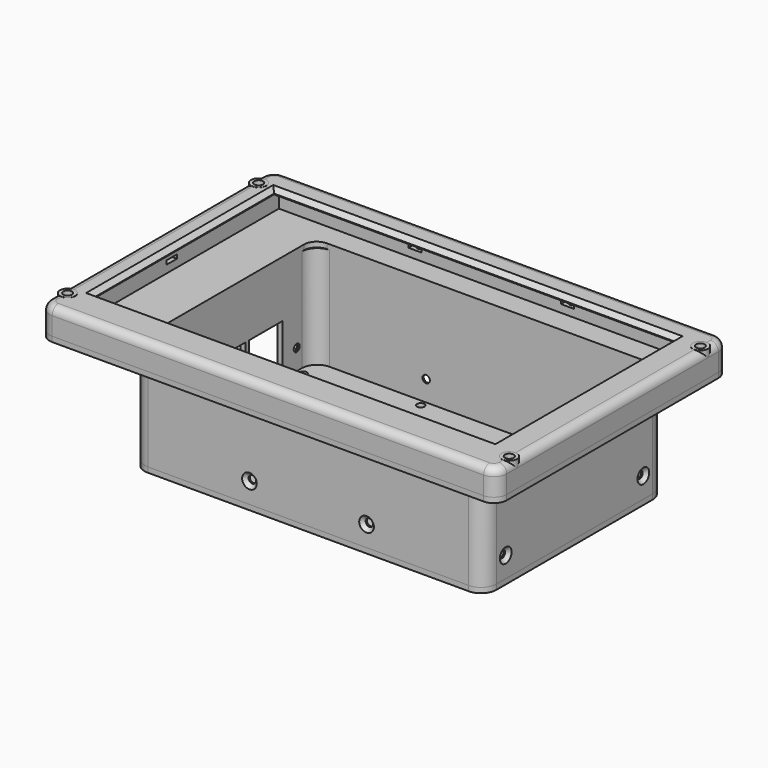
from build123d import *

# Parameters (mm, degrees)
BOX023_W          = 5
BOX023_H          = 4
BOX023_DEPTH      = 1.5
BOX022_W          = 6
BOX022_H          = 5
BOX022_DEPTH      = 1.5
BOX021_W          = 6
BOX021_H          = 5
BOX021_DEPTH      = 1.5
BOX020_W          = 5
BOX020_H          = 4
BOX020_DEPTH      = 1.5
BOX019_W          = 5
BOX019_H          = 4
BOX019_DEPTH      = 1.5
BOX018_W          = 5
BOX018_H          = 4
BOX018_DEPTH      = 1.5
CYLINDER027_R     = 0.9
CYLINDER027_DEPTH = 10
CYLINDER026_R     = 0.9
CYLINDER026_DEPTH = 10
CYLINDER025_R     = 0.9
CYLINDER025_DEPTH = 10
CYLINDER024_R     = 0.9
CYLINDER024_DEPTH = 10
CYLINDER023_R     = 0.9
CYLINDER023_DEPTH = 10
CYLINDER022_R     = 0.9
CYLINDER022_DEPTH = 10
CYLINDER003_R     = 1.7
CYLINDER003_DEPTH = 17
CYLINDER002_R     = 1.7
CYLINDER002_DEPTH = 17
CYLINDER001_R     = 1.7
CYLINDER001_DEPTH = 17
CYLINDER_R        = 1.7
CYLINDER_DEPTH    = 17
CYLINDER007_R     = 2.99
CYLINDER007_DEPTH = 7.1
CYLINDER006_R     = 2.99
CYLINDER006_DEPTH = 7.1
CYLINDER005_R     = 2.99
CYLINDER005_DEPTH = 7.1
CYLINDER004_R     = 2.99
CYLINDER004_DEPTH = 7.1
BOX006_W          = 156
BOX006_H          = 87.7
BOX006_DEPTH      = 7.05
BOX001_W          = 165.4
BOX001_H          = 104.4
BOX001_DEPTH      = 8.05
BOX_W             = 178
BOX_H             = 113
BOX_DEPTH         = 10.05
FILLET_R          = 5
FILLET012_R       = 3
CHAMFER_SIZE      = 1.7
CHAMFER004_SIZE   = 1.7
TUBE_R            = 3
TUBE_R_2          = 1.45
TUBE_DEPTH        = 2
BOX036_W          = 2
BOX036_H          = 16.3
BOX036_DEPTH      = 16
BOX035_W          = 2
BOX035_H          = 16.3
BOX035_DEPTH      = 16
BOX034_W          = 2
BOX034_H          = 17.3
BOX034_DEPTH      = 14.5
BOX005_W          = 133
BOX005_H          = 84
BOX005_DEPTH      = 15
FILLET003_R       = 5
BOX004_W          = 178
BOX004_H          = 113
BOX004_DEPTH      = 2
FILLET004_R       = 5
CYLINDER032_R     = 1.45
CYLINDER032_DEPTH = 108
CYLINDER011_R     = 1.45
CYLINDER011_DEPTH = 157
CYLINDER010_R     = 1.45
CYLINDER010_DEPTH = 155
CYLINDER008_R     = 1.45
CYLINDER008_DEPTH = 108
BOX007_W          = 133
BOX007_H          = 84
BOX007_DEPTH      = 40
BOX008_W          = 137
BOX008_H          = 88
BOX008_DEPTH      = 40
FILLET013_R       = 6
CHAMFER005_SIZE   = 1.4
CHAMFER006_SIZE   = 0.8
CYLINDER021_R     = 1.45
CYLINDER021_DEPTH = 10
CYLINDER020_R     = 1.45
CYLINDER020_DEPTH = 10
BOX017_W          = 10
BOX017_H          = 19
BOX017_DEPTH      = 10
FILLET015_R       = 2
CYLINDER015_R     = 1.45
CYLINDER015_DEPTH = 10
CYLINDER014_R     = 1.45
CYLINDER014_DEPTH = 10
CYLINDER013_R     = 1.45
CYLINDER013_DEPTH = 10
CYLINDER012_R     = 1.45
CYLINDER012_DEPTH = 10
CYLINDER040_R     = 1.45
CYLINDER040_DEPTH = 10
CYLINDER039_R     = 1.45
CYLINDER039_DEPTH = 10
CYLINDER038_R     = 1.45
CYLINDER038_DEPTH = 10
CYLINDER037_R     = 1.45
CYLINDER037_DEPTH = 10
CYLINDER036_R     = 1.45
CYLINDER036_DEPTH = 10
CYLINDER035_R     = 1.45
CYLINDER035_DEPTH = 10
CYLINDER034_R     = 1.45
CYLINDER034_DEPTH = 10
CYLINDER033_R     = 1.45
CYLINDER033_DEPTH = 10
BOX010_W          = 137
BOX010_H          = 88
BOX010_DEPTH      = 2
FILLET014_R       = 6
TUBE001_R         = 3
TUBE001_R_2       = 1.45
TUBE001_DEPTH     = 2
TUBE002_R         = 3
TUBE002_R_2       = 1.45
TUBE002_DEPTH     = 2
TUBE003_R         = 3
TUBE003_R_2       = 1.45
TUBE003_DEPTH     = 2


with BuildPart() as obj1:
    # Box023 → Box023 (new body)
    with BuildSketch(Plane(origin=(116.167, 108.5, 3), x_dir=(1, 0, 0), z_dir=(0, 0, 1))):
        with Locations((2.5, 2)):
            Rectangle(BOX023_W, BOX023_H)
    extrude(amount=BOX023_DEPTH)


with BuildPart() as obj2:
    # Box022 → Box022 (new body)
    with BuildSketch(Plane(origin=(170.7, 54, 3), x_dir=(1, 0, 0), z_dir=(0, 0, 1))):
        with Locations((3, 2.5)):
            Rectangle(BOX022_W, BOX022_H)
    extrude(amount=BOX022_DEPTH)


with BuildPart() as obj3:
    # Box021 → Box021 (new body)
    with BuildSketch(Plane(origin=(1.3, 54, 3), x_dir=(1, 0, 0), z_dir=(0, 0, 1))):
        with Locations((3, 2.5)):
            Rectangle(BOX021_W, BOX021_H)
    extrude(amount=BOX021_DEPTH)


with BuildPart() as obj4:
    # Box020 → Box020 (new body)
    with BuildSketch(Plane(origin=(56.8333, 108.5, 3), x_dir=(1, 0, 0), z_dir=(0, 0, 1))):
        with Locations((2.5, 2)):
            Rectangle(BOX020_W, BOX020_H)
    extrude(amount=BOX020_DEPTH)


with BuildPart() as obj5:
    # Box019 → Box019 (new body)
    with BuildSketch(Plane(origin=(116.167, 0.5, 3), x_dir=(1, 0, 0), z_dir=(0, 0, 1))):
        with Locations((2.5, 2)):
            Rectangle(BOX019_W, BOX019_H)
    extrude(amount=BOX019_DEPTH)


with BuildPart() as obj6:
    # Box018 → Box018 (new body)
    with BuildSketch(Plane(origin=(56.8333, 0.5, 3), x_dir=(1, 0, 0), z_dir=(0, 0, 1))):
        with Locations((2.5, 2)):
            Rectangle(BOX018_W, BOX018_H)
    extrude(amount=BOX018_DEPTH)


with BuildPart() as zylinder027:
    # Cylinder027 → Cylinder027 (new body)
    with BuildSketch(Plane(origin=(174.85, 56.5, -4), x_dir=(1, 0, 0), z_dir=(0, 0, 1))):
        Circle(CYLINDER027_R)
    extrude(amount=CYLINDER027_DEPTH)


with BuildPart() as zylinder026:
    # Cylinder026 → Cylinder026 (new body)
    with BuildSketch(Plane(origin=(3.15, 56.5, -4), x_dir=(1, 0, 0), z_dir=(0, 0, 1))):
        Circle(CYLINDER026_R)
    extrude(amount=CYLINDER026_DEPTH)


with BuildPart() as zylinder025:
    # Cylinder025 → Cylinder025 (new body)
    with BuildSketch(Plane(origin=(118.666667, 110.85, -4), x_dir=(1, 0, 0), z_dir=(0, 0, 1))):
        Circle(CYLINDER025_R)
    extrude(amount=CYLINDER025_DEPTH)


with BuildPart() as zylinder024:
    # Cylinder024 → Cylinder024 (new body)
    with BuildSketch(Plane(origin=(59.333333, 110.85, -4), x_dir=(1, 0, 0), z_dir=(0, 0, 1))):
        Circle(CYLINDER024_R)
    extrude(amount=CYLINDER024_DEPTH)


with BuildPart() as zylinder023:
    # Cylinder023 → Cylinder023 (new body)
    with BuildSketch(Plane(origin=(118.666667, 2.15, -4), x_dir=(1, 0, 0), z_dir=(0, 0, 1))):
        Circle(CYLINDER023_R)
    extrude(amount=CYLINDER023_DEPTH)


with BuildPart() as zylinder022:
    # Cylinder022 → Cylinder022 (new body)
    with BuildSketch(Plane(origin=(59.333333, 2.15, -4), x_dir=(1, 0, 0), z_dir=(0, 0, 1))):
        Circle(CYLINDER022_R)
    extrude(amount=CYLINDER022_DEPTH)


with BuildPart() as zylinder003:
    # Cylinder003 → Cylinder003 (new body)
    with BuildSketch(Plane(origin=(175, 103, -5), x_dir=(1, 0, 0), z_dir=(0, 0, 1))):
        Circle(CYLINDER003_R)
    extrude(amount=CYLINDER003_DEPTH)


with BuildPart() as zylinder002:
    # Cylinder002 → Cylinder002 (new body)
    with BuildSketch(Plane(origin=(175, 10, -5), x_dir=(1, 0, 0), z_dir=(0, 0, 1))):
        Circle(CYLINDER002_R)
    extrude(amount=CYLINDER002_DEPTH)


with BuildPart() as zylinder001:
    # Cylinder001 → Cylinder001 (new body)
    with BuildSketch(Plane(origin=(3, 103, -5), x_dir=(1, 0, 0), z_dir=(0, 0, 1))):
        Circle(CYLINDER001_R)
    extrude(amount=CYLINDER001_DEPTH)


with BuildPart() as zylinder:
    # Cylinder → Cylinder (new body)
    with BuildSketch(Plane(origin=(3, 10, -5), x_dir=(1, 0, 0), z_dir=(0, 0, 1))):
        Circle(CYLINDER_R)
    extrude(amount=CYLINDER_DEPTH)


with BuildPart() as zylinder007:
    # Cylinder007 → Cylinder007 (new body)
    with BuildSketch(Plane(origin=(175, 103, 3), x_dir=(1, 0, 0), z_dir=(0, 0, 1))):
        Circle(CYLINDER007_R)
    extrude(amount=CYLINDER007_DEPTH)


with BuildPart() as zylinder006:
    # Cylinder006 → Cylinder006 (new body)
    with BuildSketch(Plane(origin=(175, 10, 3), x_dir=(1, 0, 0), z_dir=(0, 0, 1))):
        Circle(CYLINDER006_R)
    extrude(amount=CYLINDER006_DEPTH)


with BuildPart() as zylinder005:
    # Cylinder005 → Cylinder005 (new body)
    with BuildSketch(Plane(origin=(3, 103, 3), x_dir=(1, 0, 0), z_dir=(0, 0, 1))):
        Circle(CYLINDER005_R)
    extrude(amount=CYLINDER005_DEPTH)


with BuildPart() as zylinder004:
    # Cylinder004 → Cylinder004 (new body)
    with BuildSketch(Plane(origin=(3, 10, 3), x_dir=(1, 0, 0), z_dir=(0, 0, 1))):
        Circle(CYLINDER004_R)
    extrude(amount=CYLINDER004_DEPTH)


with BuildPart() as obj7:
    # Box006 → Box006 (new body)
    with BuildSketch(Plane(origin=(9, 15.3, 3), x_dir=(1, 0, 0), z_dir=(0, 0, 1))):
        with Locations((78, 43.85)):
            Rectangle(BOX006_W, BOX006_H)
    extrude(amount=BOX006_DEPTH)


with BuildPart() as obj8:
    # Box001 → Box001 (new body)
    with BuildSketch(Plane(origin=(6.3, 4.3, 0), x_dir=(1, 0, 0), z_dir=(0, 0, 1))):
        with Locations((82.7, 52.2)):
            Rectangle(BOX001_W, BOX001_H)
    extrude(amount=BOX001_DEPTH)


with BuildPart() as frame:
    # Box → Box (new body)
    with BuildSketch(Plane.XY):
        with Locations((89, 56.5)):
            Rectangle(BOX_W, BOX_H)
    extrude(amount=BOX_DEPTH)

    # Cut: cut obj8
    add(obj8.part, mode=Mode.SUBTRACT)

    # Cut038: cut obj7
    add(obj7.part, mode=Mode.SUBTRACT)

    # Fillet
    fillet_edges = [frame.edges().sort_by_distance(p)[0] for p in [
        (0, 0, 5.025),
        (0, 113, 5.025),
        (178, 0, 5.025),
        (178, 113, 5.025),
    ]]
    fillet(fillet_edges, radius=FILLET_R)

    # Fillet012
    fillet012_edges = [frame.edges().sort_by_distance(p)[0] for p in [
        (178, 56.5, 10.05),
    ]]
    fillet(fillet012_edges, radius=FILLET012_R)

    # Fusion: union Zylinder004
    add(zylinder004.part)

    # Fusion018: union Zylinder005
    add(zylinder005.part)

    # Fusion019: union Zylinder006
    add(zylinder006.part)

    # Fusion020: union Zylinder007
    add(zylinder007.part)

    # Cut039: cut Zylinder
    add(zylinder.part, mode=Mode.SUBTRACT)

    # Cut040: cut Zylinder001
    add(zylinder001.part, mode=Mode.SUBTRACT)

    # Cut041: cut Zylinder002
    add(zylinder002.part, mode=Mode.SUBTRACT)

    # Cut042: cut Zylinder003
    add(zylinder003.part, mode=Mode.SUBTRACT)

    # Chamfer
    chamfer_edges = [frame.edges().sort_by_distance(p)[0] for p in [
        (9, 59.15, 10.05),
        (165, 59.15, 10.05),
    ]]
    chamfer(chamfer_edges, length=CHAMFER_SIZE)

    # Chamfer004
    chamfer004_edges = [frame.edges().sort_by_distance(p)[0] for p in [
        (8.15, 15.3, 10.05),
        (87, 15.3, 10.05),
        (165.85, 15.3, 10.05),
        (8.15, 103, 10.05),
        (87, 103, 10.05),
        (165.85, 103, 10.05),
    ]]
    chamfer(chamfer004_edges, length=CHAMFER004_SIZE)

    # Cut043: cut Zylinder022
    add(zylinder022.part, mode=Mode.SUBTRACT)

    # Cut044: cut Zylinder023
    add(zylinder023.part, mode=Mode.SUBTRACT)

    # Cut045: cut Zylinder024
    add(zylinder024.part, mode=Mode.SUBTRACT)

    # Cut046: cut Zylinder025
    add(zylinder025.part, mode=Mode.SUBTRACT)

    # Cut047: cut Zylinder026
    add(zylinder026.part, mode=Mode.SUBTRACT)

    # Cut048: cut Zylinder027
    add(zylinder027.part, mode=Mode.SUBTRACT)

    # Cut049: cut obj6
    add(obj6.part, mode=Mode.SUBTRACT)

    # Cut050: cut obj5
    add(obj5.part, mode=Mode.SUBTRACT)

    # Cut051: cut obj4
    add(obj4.part, mode=Mode.SUBTRACT)

    # Cut052: cut obj3
    add(obj3.part, mode=Mode.SUBTRACT)

    # Cut053: cut obj2
    add(obj2.part, mode=Mode.SUBTRACT)

    # Cut083: cut obj1
    add(obj1.part, mode=Mode.SUBTRACT)


with BuildPart() as spacer:
    # Tube → Tube (new body)
    with BuildSketch(Plane(origin=(109.5, 33.5, -42), x_dir=(1, 0, 0), z_dir=(0, 0, 1))):
        Circle(TUBE_R)
        Circle(TUBE_R_2, mode=Mode.SUBTRACT)
    extrude(amount=TUBE_DEPTH)


with BuildPart() as obj9:
    # Box036 → Box036 (new body)
    with BuildSketch(Plane(origin=(25, 68.4, -38), x_dir=(1, 0, 0), z_dir=(0, 0, 1))):
        with Locations((1, 8.15)):
            Rectangle(BOX036_W, BOX036_H)
    extrude(amount=BOX036_DEPTH)


with BuildPart() as obj10:
    # Box035 → Box035 (new body)
    with BuildSketch(Plane(origin=(25, 50.4, -38), x_dir=(1, 0, 0), z_dir=(0, 0, 1))):
        with Locations((1, 8.15)):
            Rectangle(BOX035_W, BOX035_H)
    extrude(amount=BOX035_DEPTH)


with BuildPart() as obj11:
    # Box034 → Box034 (new body)
    with BuildSketch(Plane(origin=(25, 31.5, -38), x_dir=(1, 0, 0), z_dir=(0, 0, 1))):
        with Locations((1, 8.65)):
            Rectangle(BOX034_W, BOX034_H)
    extrude(amount=BOX034_DEPTH)


with BuildPart() as fillet003:
    # Box005 → Box005 (new body)
    with BuildSketch(Plane(origin=(27, 16, -14), x_dir=(1, 0, 0), z_dir=(0, 0, 1))):
        with Locations((66.5, 42)):
            Rectangle(BOX005_W, BOX005_H)
    extrude(amount=BOX005_DEPTH)

    # Fillet003
    fillet003_edges = [fillet003.edges().sort_by_distance(p)[0] for p in [
        (27, 16, -6.5),
        (27, 100, -6.5),
        (160, 16, -6.5),
        (160, 100, -6.5),
    ]]
    fillet(fillet003_edges, radius=FILLET003_R)


with BuildPart() as cut066:
    # Box004 → Box004 (new body)
    with BuildSketch(Plane.XY.offset(-2)):
        with Locations((89, 56.5)):
            Rectangle(BOX004_W, BOX004_H)
    extrude(amount=BOX004_DEPTH)

    # Cut011: cut Fillet003
    add(fillet003.part, mode=Mode.SUBTRACT)

    # Cut012: cut Zylinder001
    add(zylinder001.part, mode=Mode.SUBTRACT)

    # Cut013: cut Zylinder002
    add(zylinder002.part, mode=Mode.SUBTRACT)

    # Cut014: cut Zylinder003
    add(zylinder003.part, mode=Mode.SUBTRACT)

    # Cut015: cut Zylinder
    add(zylinder.part, mode=Mode.SUBTRACT)

    # Fillet004
    fillet004_edges = [cut066.edges().sort_by_distance(p)[0] for p in [
        (0, 0, -1),
        (0, 113, -1),
        (178, 0, -1),
        (178, 113, -1),
    ]]
    fillet(fillet004_edges, radius=FILLET004_R)

    # Cut060: cut Zylinder022
    add(zylinder022.part, mode=Mode.SUBTRACT)

    # Cut061: cut Zylinder022
    add(zylinder022.part, mode=Mode.SUBTRACT)

    # Cut062: cut Zylinder024
    add(zylinder024.part, mode=Mode.SUBTRACT)

    # Cut063: cut Zylinder025
    add(zylinder025.part, mode=Mode.SUBTRACT)

    # Cut064: cut Zylinder026
    add(zylinder026.part, mode=Mode.SUBTRACT)

    # Cut065: cut Zylinder027
    add(zylinder027.part, mode=Mode.SUBTRACT)

    # Cut066: cut Zylinder023
    add(zylinder023.part, mode=Mode.SUBTRACT)


with BuildPart() as zylinder032:
    # Cylinder032 → Cylinder032 (new body)
    with BuildSketch(Plane(origin=(70.6, 114, -34), x_dir=(1, 0, 0), z_dir=(0, -1, 0))):
        Circle(CYLINDER032_R)
    extrude(amount=CYLINDER032_DEPTH)


with BuildPart() as zylinder011:
    # Cylinder011 → Cylinder011 (new body)
    with BuildSketch(Plane(origin=(14, 91.5, -34), x_dir=(0, 0, -1), z_dir=(1, 0, 0))):
        Circle(CYLINDER011_R)
    extrude(amount=CYLINDER011_DEPTH)


with BuildPart() as zylinder010:
    # Cylinder010 → Cylinder010 (new body)
    with BuildSketch(Plane(origin=(14, 24.5, -34), x_dir=(0, 0, -1), z_dir=(1, 0, 0))):
        Circle(CYLINDER010_R)
    extrude(amount=CYLINDER010_DEPTH)


with BuildPart() as zylinder008:
    # Cylinder008 → Cylinder008 (new body)
    with BuildSketch(Plane(origin=(116.2, 114, -34), x_dir=(1, 0, 0), z_dir=(0, -1, 0))):
        Circle(CYLINDER008_R)
    extrude(amount=CYLINDER008_DEPTH)


with BuildPart() as obj12:
    # Box007 → Box007 (new body)
    with BuildSketch(Plane(origin=(27, 16, -42), x_dir=(1, 0, 0), z_dir=(0, 0, 1))):
        with Locations((66.5, 42)):
            Rectangle(BOX007_W, BOX007_H)
    extrude(amount=BOX007_DEPTH)


with BuildPart() as housing:
    # Box008 → Box008 (new body)
    with BuildSketch(Plane(origin=(25, 14, -42), x_dir=(1, 0, 0), z_dir=(0, 0, 1))):
        with Locations((68.5, 44)):
            Rectangle(BOX008_W, BOX008_H)
    extrude(amount=BOX008_DEPTH)

    # Cut054: cut obj12
    add(obj12.part, mode=Mode.SUBTRACT)

    # Cut089: cut Zylinder008
    add(zylinder008.part, mode=Mode.SUBTRACT)

    # Cut090: cut Zylinder010
    add(zylinder010.part, mode=Mode.SUBTRACT)

    # Cut091: cut Zylinder011
    add(zylinder011.part, mode=Mode.SUBTRACT)

    # Cut092: cut Zylinder032
    add(zylinder032.part, mode=Mode.SUBTRACT)

    # Fillet013
    fillet013_edges = [housing.edges().sort_by_distance(p)[0] for p in [
        (25, 14, -22),
        (25, 102, -22),
        (162, 14, -22),
        (162, 102, -22),
        (27, 16, -22),
        (27, 100, -22),
        (160, 16, -22),
        (160, 100, -22),
    ]]
    fillet(fillet013_edges, radius=FILLET013_R)

    # Chamfer005
    chamfer005_edges = [housing.edges().sort_by_distance(p)[0] for p in [
        (25, 91.5, -32.55),
        (25, 24.5, -32.55),
        (69.15, 14, -34),
        (114.75, 14, -34),
        (69.15, 102, -34),
        (114.75, 102, -34),
        (162, 91.5, -32.55),
        (162, 24.5, -32.55),
    ]]
    chamfer(chamfer005_edges, length=CHAMFER005_SIZE)

    # Fusion021: union Cut066
    add(cut066.part)

    # Chamfer006
    chamfer006_edges = [housing.edges().sort_by_distance(p)[0] for p in [
        (58.433333, 2.15, -2),
        (117.766667, 2.15, -2),
        (2.25, 56.5, -2),
        (58.433333, 110.85, -2),
        (173.95, 56.5, -2),
        (117.766667, 110.85, -2),
    ]]
    chamfer(chamfer006_edges, length=CHAMFER006_SIZE)

    # Cut105: cut obj11
    add(obj11.part, mode=Mode.SUBTRACT)

    # Cut106: cut obj10
    add(obj10.part, mode=Mode.SUBTRACT)

    # Cut107: cut obj9
    add(obj9.part, mode=Mode.SUBTRACT)


with BuildPart() as zylinder021:
    # Cylinder021 → Cylinder021 (new body)
    with BuildSketch(Plane(origin=(152, 61.15, -49), x_dir=(1, 0, 0), z_dir=(0, 0, 1))):
        Circle(CYLINDER021_R)
    extrude(amount=CYLINDER021_DEPTH)


with BuildPart() as zylinder020:
    # Cylinder020 → Cylinder020 (new body)
    with BuildSketch(Plane(origin=(152, 83.85, -49), x_dir=(1, 0, 0), z_dir=(0, 0, 1))):
        Circle(CYLINDER020_R)
    extrude(amount=CYLINDER020_DEPTH)


with BuildPart() as fillet015:
    # Box017 → Box017 (new body)
    with BuildSketch(Plane(origin=(147, 63, -49), x_dir=(1, 0, 0), z_dir=(0, 0, 1))):
        with Locations((5, 9.5)):
            Rectangle(BOX017_W, BOX017_H)
    extrude(amount=BOX017_DEPTH)

    # Fillet015
    fillet015_edges = [fillet015.edges().sort_by_distance(p)[0] for p in [
        (147, 63, -44),
        (147, 82, -44),
        (157, 63, -44),
        (157, 82, -44),
    ]]
    fillet(fillet015_edges, radius=FILLET015_R)


with BuildPart() as zylinder015:
    # Cylinder015 → Cylinder015 (new body)
    with BuildSketch(Plane(origin=(109.5, 82.5, -49), x_dir=(1, 0, 0), z_dir=(0, 0, 1))):
        Circle(CYLINDER015_R)
    extrude(amount=CYLINDER015_DEPTH)


with BuildPart() as zylinder014:
    # Cylinder014 → Cylinder014 (new body)
    with BuildSketch(Plane(origin=(51.5, 33.5, -49), x_dir=(1, 0, 0), z_dir=(0, 0, 1))):
        Circle(CYLINDER014_R)
    extrude(amount=CYLINDER014_DEPTH)


with BuildPart() as zylinder013:
    # Cylinder013 → Cylinder013 (new body)
    with BuildSketch(Plane(origin=(51.5, 82.5, -49), x_dir=(1, 0, 0), z_dir=(0, 0, 1))):
        Circle(CYLINDER013_R)
    extrude(amount=CYLINDER013_DEPTH)


with BuildPart() as zylinder012:
    # Cylinder012 → Cylinder012 (new body)
    with BuildSketch(Plane(origin=(109.5, 33.5, -49), x_dir=(1, 0, 0), z_dir=(0, 0, 1))):
        Circle(CYLINDER012_R)
    extrude(amount=CYLINDER012_DEPTH)


with BuildPart() as zylinder040:
    # Cylinder040 → Cylinder040 (new body)
    with BuildSketch(Plane(origin=(29.5, 24.5, -49), x_dir=(1, 0, 0), z_dir=(0, 0, 1))):
        Circle(CYLINDER040_R)
    extrude(amount=CYLINDER040_DEPTH)


with BuildPart() as zylinder039:
    # Cylinder039 → Cylinder039 (new body)
    with BuildSketch(Plane(origin=(157.5, 24.5, -49), x_dir=(1, 0, 0), z_dir=(0, 0, 1))):
        Circle(CYLINDER039_R)
    extrude(amount=CYLINDER039_DEPTH)


with BuildPart() as zylinder038:
    # Cylinder038 → Cylinder038 (new body)
    with BuildSketch(Plane(origin=(157.5, 91.5, -49), x_dir=(1, 0, 0), z_dir=(0, 0, 1))):
        Circle(CYLINDER038_R)
    extrude(amount=CYLINDER038_DEPTH)


with BuildPart() as zylinder037:
    # Cylinder037 → Cylinder037 (new body)
    with BuildSketch(Plane(origin=(29.5, 91.5, -49), x_dir=(1, 0, 0), z_dir=(0, 0, 1))):
        Circle(CYLINDER037_R)
    extrude(amount=CYLINDER037_DEPTH)


with BuildPart() as zylinder036:
    # Cylinder036 → Cylinder036 (new body)
    with BuildSketch(Plane(origin=(70.5, 18.5, -49), x_dir=(1, 0, 0), z_dir=(0, 0, 1))):
        Circle(CYLINDER036_R)
    extrude(amount=CYLINDER036_DEPTH)


with BuildPart() as zylinder035:
    # Cylinder035 → Cylinder035 (new body)
    with BuildSketch(Plane(origin=(70.5, 97.5, -49), x_dir=(1, 0, 0), z_dir=(0, 0, 1))):
        Circle(CYLINDER035_R)
    extrude(amount=CYLINDER035_DEPTH)


with BuildPart() as zylinder034:
    # Cylinder034 → Cylinder034 (new body)
    with BuildSketch(Plane(origin=(116.1, 18.5, -49), x_dir=(1, 0, 0), z_dir=(0, 0, 1))):
        Circle(CYLINDER034_R)
    extrude(amount=CYLINDER034_DEPTH)


with BuildPart() as zylinder033:
    # Cylinder033 → Cylinder033 (new body)
    with BuildSketch(Plane(origin=(116.1, 97.5, -49), x_dir=(1, 0, 0), z_dir=(0, 0, 1))):
        Circle(CYLINDER033_R)
    extrude(amount=CYLINDER033_DEPTH)


with BuildPart() as backplate:
    # Box010 → Box010 (new body)
    with BuildSketch(Plane(origin=(25, 14, -44), x_dir=(1, 0, 0), z_dir=(0, 0, 1))):
        with Locations((68.5, 44)):
            Rectangle(BOX010_W, BOX010_H)
    extrude(amount=BOX010_DEPTH)

    # Fillet014
    fillet014_edges = [backplate.edges().sort_by_distance(p)[0] for p in [
        (25, 14, -43),
        (25, 102, -43),
        (162, 14, -43),
        (162, 102, -43),
    ]]
    fillet(fillet014_edges, radius=FILLET014_R)

    # Cut093: cut Zylinder033
    add(zylinder033.part, mode=Mode.SUBTRACT)

    # Cut094: cut Zylinder034
    add(zylinder034.part, mode=Mode.SUBTRACT)

    # Cut095: cut Zylinder035
    add(zylinder035.part, mode=Mode.SUBTRACT)

    # Cut096: cut Zylinder036
    add(zylinder036.part, mode=Mode.SUBTRACT)

    # Cut097: cut Zylinder037
    add(zylinder037.part, mode=Mode.SUBTRACT)

    # Cut098: cut Zylinder038
    add(zylinder038.part, mode=Mode.SUBTRACT)

    # Cut099: cut Zylinder039
    add(zylinder039.part, mode=Mode.SUBTRACT)

    # Cut100: cut Zylinder040
    add(zylinder040.part, mode=Mode.SUBTRACT)

    # Cut101: cut Zylinder012
    add(zylinder012.part, mode=Mode.SUBTRACT)

    # Cut102: cut Zylinder013
    add(zylinder013.part, mode=Mode.SUBTRACT)

    # Cut103: cut Zylinder014
    add(zylinder014.part, mode=Mode.SUBTRACT)

    # Cut104: cut Zylinder015
    add(zylinder015.part, mode=Mode.SUBTRACT)

    # Cut108: cut Fillet015
    add(fillet015.part, mode=Mode.SUBTRACT)

    # Cut109: cut Zylinder020
    add(zylinder020.part, mode=Mode.SUBTRACT)

    # Cut110: cut Zylinder021
    add(zylinder021.part, mode=Mode.SUBTRACT)


with BuildPart() as spacer1:
    # Tube001 → Tube001 (new body)
    with BuildSketch(Plane(origin=(51.5, 33.5, -42), x_dir=(1, 0, 0), z_dir=(0, 0, 1))):
        Circle(TUBE001_R)
        Circle(TUBE001_R_2, mode=Mode.SUBTRACT)
    extrude(amount=TUBE001_DEPTH)


with BuildPart() as spacer2:
    # Tube002 → Tube002 (new body)
    with BuildSketch(Plane(origin=(109.5, 82.5, -42), x_dir=(1, 0, 0), z_dir=(0, 0, 1))):
        Circle(TUBE002_R)
        Circle(TUBE002_R_2, mode=Mode.SUBTRACT)
    extrude(amount=TUBE002_DEPTH)


with BuildPart() as spacer3:
    # Tube003 → Tube003 (new body)
    with BuildSketch(Plane(origin=(51.5, 82.5, -42), x_dir=(1, 0, 0), z_dir=(0, 0, 1))):
        Circle(TUBE003_R)
        Circle(TUBE003_R_2, mode=Mode.SUBTRACT)
    extrude(amount=TUBE003_DEPTH)


solid = Compound([frame.part, spacer.part, housing.part, backplate.part, spacer1.part, spacer2.part, spacer3.part])
